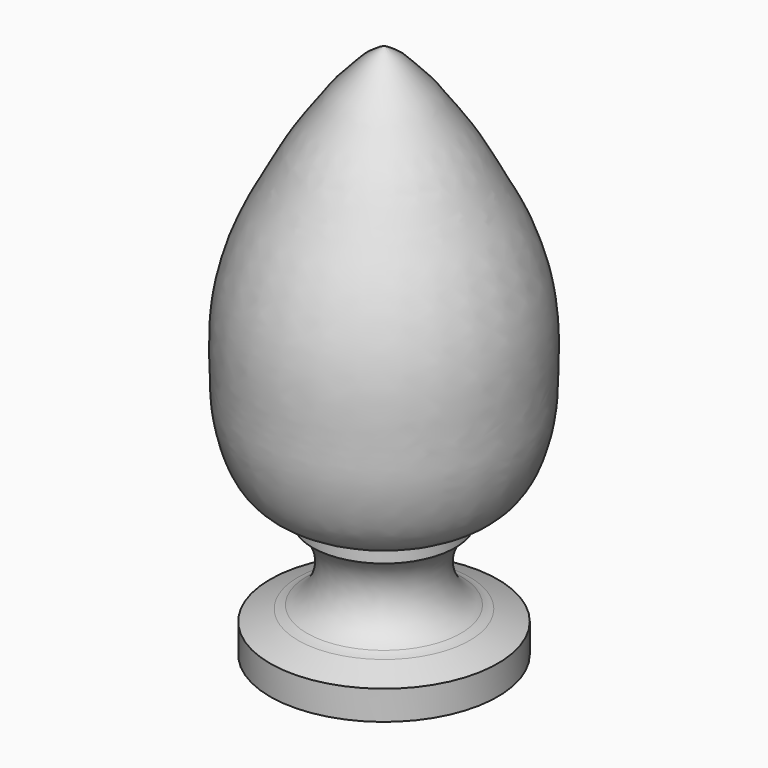
from build123d import *


with BuildPart() as f1:
    # F0 (on Front) → F1 (revolve)
    with BuildSketch(Plane.XZ):
        with BuildLine():
            Line((-29.718, 0), (0, 0))
            Line((0, 0), (0, 139.7))
            add(Edge.make_bspline(
                [(0, 139.7), (-1.332890031, 139.1882715151), (-1.8603837673, 138.7430204991), (-3.738553409, 137.5889104722), (-5.5119074264, 136.0998578475), (-7.3092610972, 133.8932217358), (-10.8605513992, 130.411160203), (-13.7142621765, 126.1493057597), (-19.8421300006, 118.0126681069), (-24.5523638064, 108.9685204818), (-30.3712789483, 98.6494156699), (-34.3429286118, 86.895270118), (-35.8827669877, 75.7913836252), (-35.485996244, 64.0177325252), (-35.3495954504, 55.2409768629), (-31.7641647583, 42.6108824886), (-25.514862995, 36.4842456962), (-19.8051602282, 34.5467560758), (-18.5812036089, 34.3930916695)],
                knots=[0, 0, 0, 0, 0.0357723298, 0.0678639681, 0.1033114242, 0.1427641876, 0.1939418386, 0.247423772, 0.3211937059, 0.3968212146, 0.4771292725, 0.5591971953, 0.6379204232, 0.7170222096, 0.787354561, 0.8703074135, 0.9404479598, 1, 1, 1, 1], degree=3))
            Line((-18.5812036089, 34.3930916695), (-18.5812036089, 30.5830916695))
            ThreePointArc((-18.5812036089, 30.5830916695), (-14.0689467041, 20.5894479355), (-20.0970385226, 11.43))
            ThreePointArc((-20.0970385226, 11.43), (-21.2180602155, 10.9140424703), (-22.3883914024, 10.5226006208))
            Line((-22.3883914024, 10.5226006208), (-29.718, 7.62))
            Line((-29.718, 7.62), (-29.718, 0))
        make_face()
    revolve(axis=Axis((0, 0, 69.85), (0, 0, 1)))


solid = f1.part
